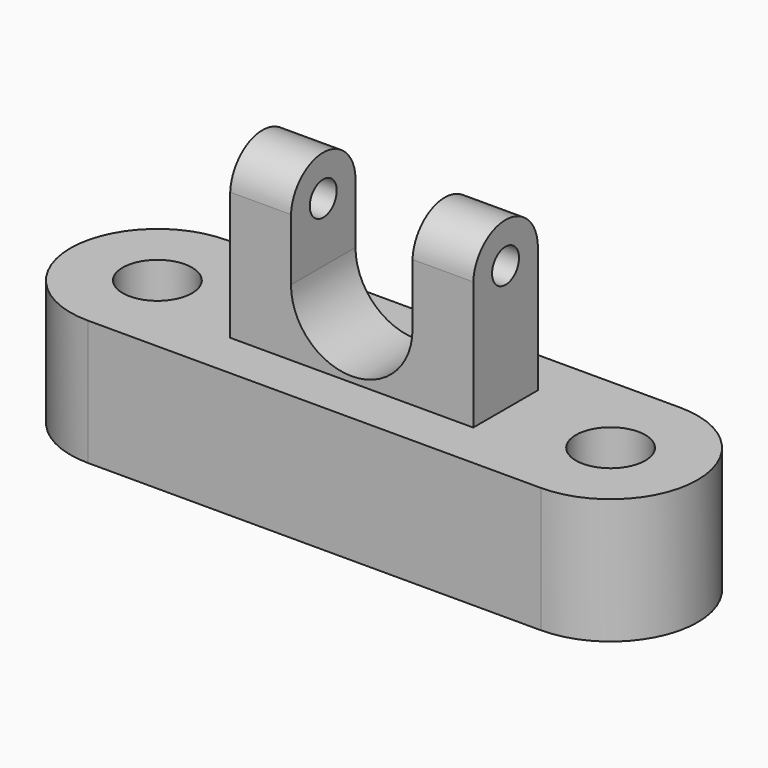
from build123d import *

# Parameters (mm, degrees)
F0_W     = 49.2534674704
F0_H     = 16.3461286575
F1_DEPTH = 25.4
F2_DEPTH = 43.942
F4_DEPTH = 25.4
F5_DEPTH = 16.51
F7_DEPTH = 78.486
F8_R     = 3.4125622967
F9_DEPTH = 57.15


with BuildPart() as f1:
    # F0 (on Top) → F1 (new body)
    with BuildSketch(Plane.XY):
        with BuildLine():
            Line((45.9197200835, 7.0321863355), (45.9197200835, 17.6366120577))
            Line((45.9197200835, 17.6366120577), (-45.9197200835, 17.6366120577))
            Line((-45.9197200835, 17.6366120577), (-45.9197200835, 7.0321863355))
            ThreePointArc((-45.9197200835, 7.0321863355), (-40.9472134391, 4.9725066444), (-38.887533748, 0))
            ThreePointArc((-38.887533748, 0), (-40.9472134391, -4.9725066444), (-45.9197200835, -7.0321863355))
            Line((-45.9197200835, -7.0321863355), (-45.9197200835, -17.6366120577))
            Line((-45.9197200835, -17.6366120577), (45.9197200835, -17.6366120577))
            Line((45.9197200835, -17.6366120577), (45.9197200835, -7.0321863355))
            ThreePointArc((45.9197200835, -7.0321863355), (38.887533748, 0), (45.9197200835, 7.0321863355))
        make_face()
        Rectangle(F0_W, F0_H, mode=Mode.SUBTRACT)
        with BuildLine():
            ThreePointArc((45.9197200835, -17.6366120577), (63.5563321412, 0), (45.9197200835, 17.6366120577))
            Line((45.9197200835, 17.6366120577), (45.9197200835, 7.0321863355))
            ThreePointArc((45.9197200835, 7.0321863355), (50.8922267279, 4.9725066444), (52.951906419, 0))
            ThreePointArc((52.951906419, 0), (50.8922267279, -4.9725066444), (45.9197200835, -7.0321863355))
            Line((45.9197200835, -7.0321863355), (45.9197200835, -17.6366120577))
        make_face()
        with BuildLine():
            Line((-45.9197200835, 7.0321863355), (-45.9197200835, 17.6366120577))
            ThreePointArc((-45.9197200835, 17.6366120577), (-63.5563321412, 0), (-45.9197200835, -17.6366120577))
            Line((-45.9197200835, -17.6366120577), (-45.9197200835, -7.0321863355))
            ThreePointArc((-45.9197200835, -7.0321863355), (-52.951906419, 0), (-45.9197200835, 7.0321863355))
        make_face()
    extrude(amount=F1_DEPTH)

    # F0 (on Top) → F2 (join)
    with BuildSketch(Plane.XY):
        Rectangle(F0_W, F0_H)
    extrude(amount=F2_DEPTH)

    # F3 (on face) → F4 (cut)
    with BuildSketch(Plane.XZ.offset(8.1730643287)):
        with BuildLine():
            Line((0, 43.942), (-12.3133668676, 43.942))
            Line((-12.3133668676, 43.942), (-12.3133668676, 38.862))
            ThreePointArc((-12.3133668676, 38.862), (0, 26.5486331324), (12.3133668676, 38.862))
            Line((12.3133668676, 38.862), (12.3133668676, 43.942))
            Line((12.3133668676, 43.942), (0, 43.942))
        make_face()
    extrude(amount=-F4_DEPTH, mode=Mode.SUBTRACT)

    # F5 (add): faces of the model
    f5_faces = [f1.faces().sort_by_distance(p)[0] for p in [
        (-18.4700503014, 0, 43.942),
        (18.4700503014, 0, 43.942),
    ]]
    extrude(f5_faces, amount=F5_DEPTH)

    # F6 (on face) → F7 (cut)
    with BuildSketch(Plane(origin=(-24.6267337352, 0, 0), x_dir=(0, -1, 0), z_dir=(-1, 0, 0))):
        with BuildLine():
            ThreePointArc((-8.1730643287, 51.3854473829), (0, 59.1332048708), (8.1730643287, 51.3854473829))
            Line((8.1730643287, 51.3854473829), (8.1730643287, 60.452))
            Line((8.1730643287, 60.452), (-8.1730643287, 60.452))
            Line((-8.1730643287, 60.452), (-8.1730643287, 51.3854473829))
        make_face()
    extrude(amount=-F7_DEPTH, mode=Mode.SUBTRACT)

    # F8 (on face) → F9 (cut)
    with BuildSketch(Plane(origin=(-24.6267337352, 0, 0), x_dir=(0, -1, 0), z_dir=(-1, 0, 0))):
        with Locations((0, 50.9484671056)):
            Circle(F8_R)
    extrude(amount=-F9_DEPTH, mode=Mode.SUBTRACT)


solid = f1.part
